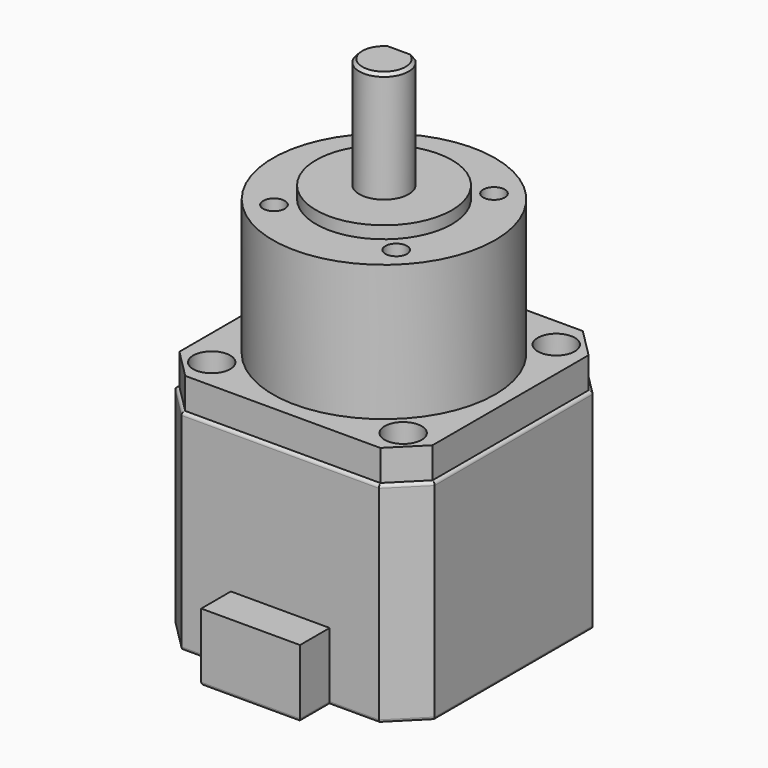
from build123d import *

# Parameters (mm, degrees)
F0_W      = 42
F0_H      = 42
F1_DEPTH  = 34
F2_SIZE   = 5
F3_W      = 16
F3_H      = 6
F4_DEPTH  = 11
F5_R      = 0.5
F6_DEPTH  = 5
F7_R      = 1.75
F8_DEPTH  = 39.001
F9_R      = 3
F10_DEPTH = 4
F11_R     = 18
F12_DEPTH = 22
F13_R     = 11
F14_DEPTH = 2
F15_R     = 4
F16_DEPTH = 20
F17_SIZE  = 0.5
F19_DEPTH = 14.75
F20_R     = 1.75
F21_DEPTH = 22
F22_R     = 3
F23_DEPTH = 3
F24_R     = 5
F25_DEPTH = 4


with BuildPart() as f1:
    # F0 (on Top) → F1 (new body)
    with BuildSketch(Plane.XY):
        Rectangle(F0_W, F0_H)
    extrude(amount=F1_DEPTH)

    # F2
    f2_edges = [f1.edges().sort_by_distance(p)[0] for p in [
        (-21, -21, 17),
        (21, -21, 17),
        (21, 21, 17),
        (-21, 21, 17),
    ]]
    chamfer(f2_edges, length=F2_SIZE)

    # F3 (on Top) → F4 (join)
    with BuildSketch(Plane.XY):
        with Locations((0, -24)):
            Rectangle(F3_W, F3_H)
    extrude(amount=F4_DEPTH)

    # F5
    f5_edges = [f1.edges().sort_by_distance(p)[0] for p in [
        (21, 0, 34),
        (18.5, -18.5, 34),
        (18.5, 18.5, 34),
        (0, -21, 34),
        (0, 21, 34),
        (-18.5, -18.5, 34),
        (-18.5, 18.5, 34),
        (-21, 0, 34),
        (21, 0, 0),
        (18.5, 18.5, 0),
        (0, 21, 0),
        (-18.5, 18.5, 0),
        (-21, 0, 0),
        (-18.5, -18.5, 0),
        (-12, -21, 0),
        (-8, -24, 0),
        (0, -27, 0),
        (8, -24, 0),
        (12, -21, 0),
        (18.5, -18.5, 0),
    ]]
    fillet(f5_edges, radius=F5_R)

    # F6 (add): a face of the model
    f6_faces = [f1.faces().sort_by_distance(p)[0] for p in [
        (0, 0, 34),
    ]]
    extrude(f6_faces, amount=F6_DEPTH)

    # F7 (on face) → F8 (cut, through all)
    with BuildSketch(Plane(origin=(0, 0, 0), x_dir=(1, 0, 0), z_dir=(0, 0, -1))):
        with Locations((-15.5, 15.5)):
            Circle(F7_R)
        with Locations((-15.5, -15.5)):
            Circle(F7_R)
        with Locations((15.5, -15.5)):
            Circle(F7_R)
        with Locations((15.5, 15.5)):
            Circle(F7_R)
    extrude(amount=-F8_DEPTH, mode=Mode.SUBTRACT)

    # F9 (on face) → F10 (cut)
    with BuildSketch(Plane.XY.offset(39)):
        with Locations((-15.5, 15.5)):
            Circle(F9_R)
        with Locations((-15.5, -15.5)):
            Circle(F9_R)
        with Locations((15.5, -15.5)):
            Circle(F9_R)
        with Locations((15.5, 15.5)):
            Circle(F9_R)
    extrude(amount=-F10_DEPTH, mode=Mode.SUBTRACT)

    # F11 (on face) → F12 (join)
    with BuildSketch(Plane.XY.offset(39)):
        Circle(F11_R)
    extrude(amount=F12_DEPTH)

    # F13 (on face) → F14 (join)
    with BuildSketch(Plane.XY.offset(61)):
        Circle(F13_R)
    extrude(amount=F14_DEPTH)

    # F15 (on face) → F16 (join)
    with BuildSketch(Plane.XY.offset(61)):
        Circle(F15_R)
    extrude(amount=F16_DEPTH)

    # F17
    f17_edges = [f1.edges().sort_by_distance(p)[0] for p in [
        (-4, 0, 81),
    ]]
    chamfer(f17_edges, length=F17_SIZE)

    # F18 (on face) → F19 (cut)
    with BuildSketch(Plane.XY.offset(81)):
        with BuildLine():
            Line((-2.6457513111, 3), (2.6457513111, 3))
            ThreePointArc((2.6457513111, 3), (0, 4), (-2.6457513111, 3))
        make_face()
    extrude(amount=-F19_DEPTH, mode=Mode.SUBTRACT)

    # F20 (on face) → F21 (cut, through all)
    with BuildSketch(Plane.XY.offset(61)):
        with Locations((-9.8994949366, 9.8994949366)):
            Circle(F20_R)
        with Locations((-9.8994949366, -9.8994949366)):
            Circle(F20_R)
        with Locations((9.8994949366, -9.8994949366)):
            Circle(F20_R)
        with Locations((9.8994949366, 9.8994949366)):
            Circle(F20_R)
    extrude(amount=-F21_DEPTH, mode=Mode.SUBTRACT)

    # F22 (on face) → F23 (cut)
    with BuildSketch(Plane(origin=(0, 0, 0), x_dir=(1, 0, 0), z_dir=(0, 0, -1))):
        with Locations((-15.5, 15.5)):
            Circle(F22_R)
        with Locations((-15.5, -15.5)):
            Circle(F22_R)
        with Locations((15.5, -15.5)):
            Circle(F22_R)
        with Locations((15.5, 15.5)):
            Circle(F22_R)
    extrude(amount=-F23_DEPTH, mode=Mode.SUBTRACT)

    # F24 (on face) → F25 (cut)
    with BuildSketch(Plane(origin=(0, 0, 0), x_dir=(1, 0, 0), z_dir=(0, 0, -1))):
        Circle(F24_R)
    extrude(amount=-F25_DEPTH, mode=Mode.SUBTRACT)


solid = f1.part
